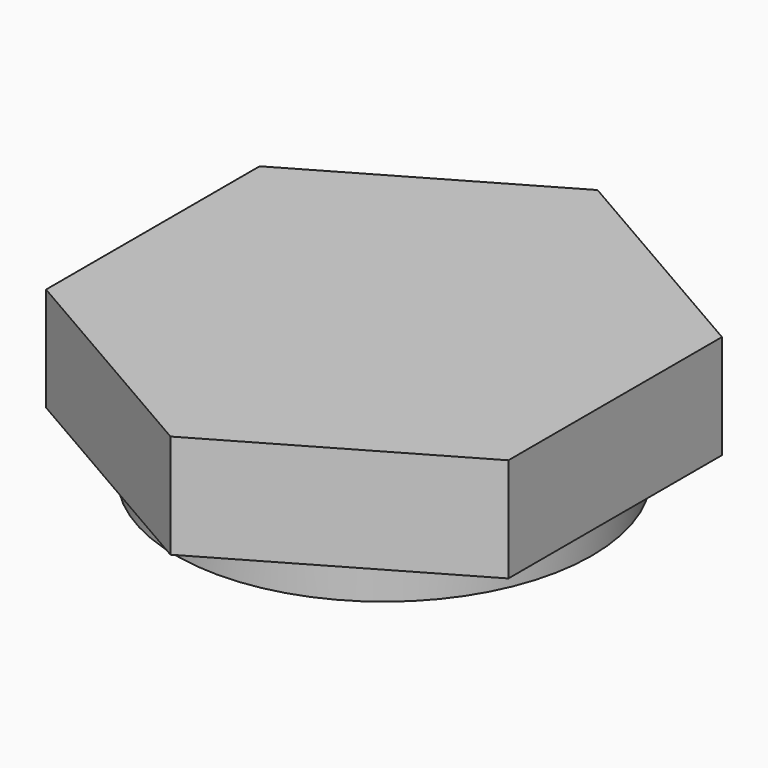
from build123d import *

# Parameters (mm, degrees)
F0_R     = 5
F1_DEPTH = 2.5
F2_DEPTH = 1


with BuildPart() as f1:
    # F0 (on Top) → F1 (new body)
    with BuildSketch(Plane.XY):
        Polygon((5.555, -3.207181), (5.555, 3.207181), (0, 6.414361), (-5.555, 3.207181), (-5.555, -3.207181), (0, -6.414361), align=None)
        Circle(F0_R, mode=Mode.SUBTRACT)
        Circle(F0_R)
    extrude(amount=F1_DEPTH)

    # F0 (on Top) → F2 (join)
    with BuildSketch(Plane.XY):
        Circle(F0_R)
    extrude(amount=-F2_DEPTH)


solid = f1.part
